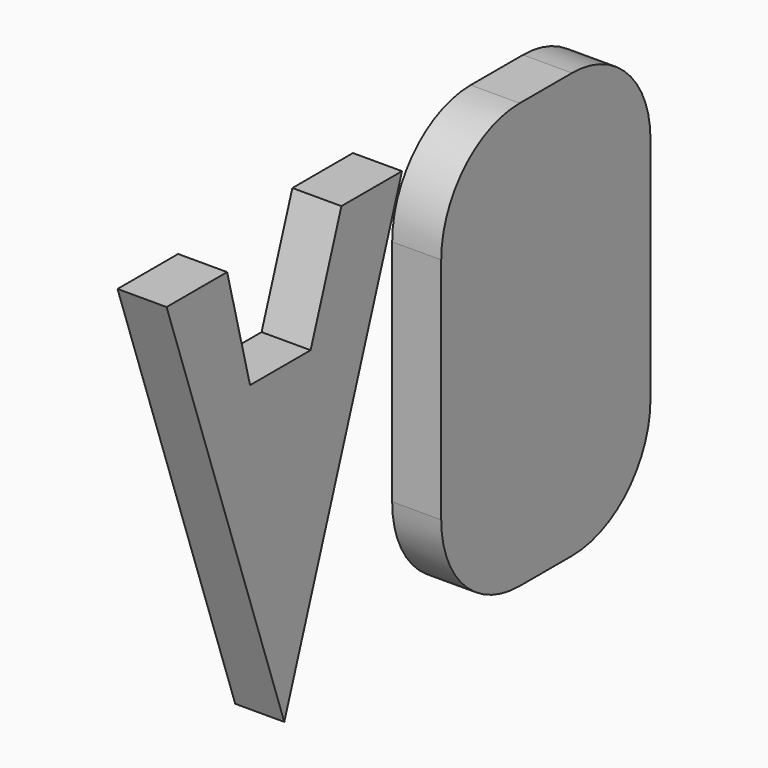
from build123d import *

# Parameters (mm, degrees)
F2_DEPTH = 30


with BuildPart() as f2:
    # F1 (on offset) → F2 (new body)
    with BuildSketch(Plane.YZ.offset(30)):
        Polygon((-143.685586, 120), (-190, 120), (-100, -140), (-10, 120), (-56.314414, 120), (-79.858788, 51.98292), (-126.173202, 51.98292), align=None)
        with BuildLine():
            Line((120, 120), (80, 120))
            ThreePointArc((80, 120), (37.573593, 102.426407), (20, 60))
            Line((20, 60), (20, -80))
            ThreePointArc((20, -80), (37.573593, -122.426407), (80, -140))
            Line((80, -140), (120, -140))
            ThreePointArc((120, -140), (162.426407, -122.426407), (180, -80))
            Line((180, -80), (180, 60))
            ThreePointArc((180, 60), (162.426407, 102.426407), (120, 120))
        make_face()
    extrude(amount=-F2_DEPTH)


solid = f2.part
